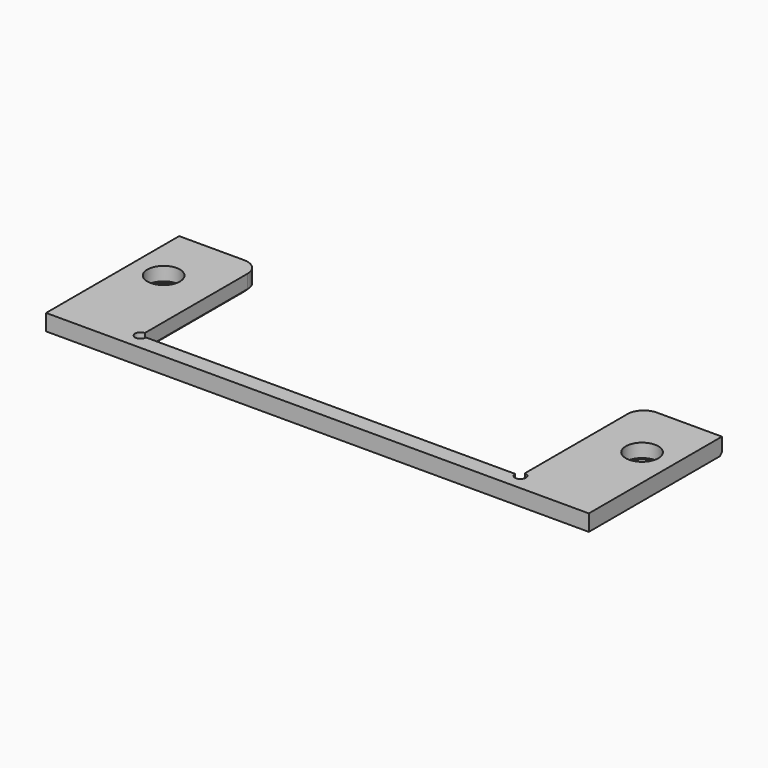
from build123d import *

# Parameters (mm, degrees)
SKETCH_R     = 3
PAD_DEPTH    = 3
SKETCH001_R  = 1
POCKET_DEPTH = 3.001
FILLET_R     = 3
CHAMFER_SIZE = 0.5


with BuildPart() as part:
    # Sketch → Pad (new body)
    with BuildSketch(Plane.XY):
        Polygon((-35, 29.15), (-35, 1.5), (35, 1.5), (35, 29.15), (50, 29.15), (50, -1.5), (-50, -1.5), (-50, 29.15), align=None)
        with Locations((-44.075, 18.17)):
            Circle(SKETCH_R, mode=Mode.SUBTRACT)
        with Locations((44.075, 18.17)):
            Circle(SKETCH_R, mode=Mode.SUBTRACT)
    extrude(amount=PAD_DEPTH)

    # Sketch001 → Pocket (cut, through all)
    with BuildSketch(Plane.XY.offset(3)):
        with Locations((-35, 1.5)):
            Circle(SKETCH001_R)
        with Locations((35, 1.5)):
            Circle(SKETCH001_R)
    extrude(amount=-POCKET_DEPTH, mode=Mode.SUBTRACT)

    # Fillet
    fillet_edges = [part.edges().sort_by_distance(p)[0] for p in [
        (-35, 29.15, 1.5),
        (35, 29.15, 1.5),
    ]]
    fillet(fillet_edges, radius=FILLET_R)

    # Chamfer
    chamfer_edges = [part.edges().sort_by_distance(p)[0] for p in [
        (0, 1.5, 0),
        (-35, 14.325, 0),
        (35, 14.325, 0),
        (-35.87868, 28.27132, 0),
        (35.87868, 28.27132, 0),
        (-47.075, 18.17, 0),
        (41.075, 18.17, 0),
    ]]
    chamfer(chamfer_edges, length=CHAMFER_SIZE)


solid = part.part
